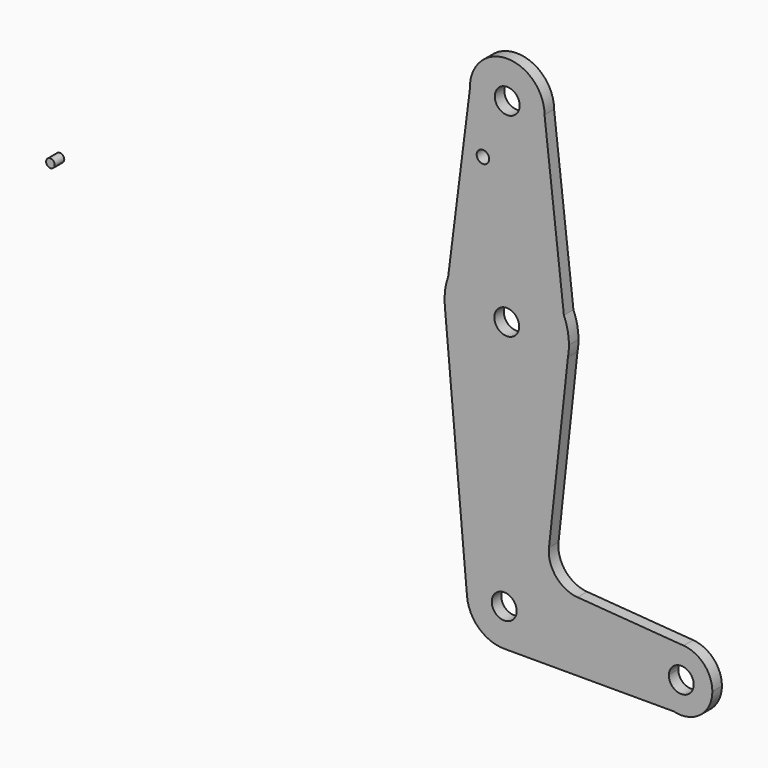
from build123d import *

# Parameters (mm, degrees)
F0_R     = 3.175
F0_R_2   = 1.5875
F1_DEPTH = 3.048
F0_R_3   = 1.1030918325


with BuildPart() as f1:
    # F0 (on Front) → F1 (new body)
    with BuildSketch(Plane.XZ):
        with BuildLine():
            ThreePointArc((-34.3240571053, 40.1856634328), (-27.362676467, 42.8457567674), (-24.4473527431, 49.7041679919))
            ThreePointArc((-24.4473527431, 49.7041679919), (-34.1512333085, 59.2274881452), (-43.4906339491, 49.3464699566))
            ThreePointArc((-43.4906339491, 49.3464699566), (-40.7054239458, 42.9668556806), (-34.3240571053, 40.1856634328))
        make_face()
        with Locations((-33.9723527431, 49.7041679919)):
            Circle(F0_R, mode=Mode.SUBTRACT)
        with BuildLine():
            Line((-19.5043619142, 6.2662041398), (-24.4473527431, 49.7041679919))
            ThreePointArc((-24.4473527431, 49.7041679919), (-27.362676467, 42.8457567674), (-34.3240571053, 40.1856634328))
            Line((-34.3240571053, 40.1856634328), (-34.3240571053, 15.8732792506))
            ThreePointArc((-34.3240571053, 15.8732792506), (-25.4548975397, 13.3208491692), (-19.5043619142, 6.2662041398))
        make_face()
        with BuildLine():
            ThreePointArc((-34.3240571053, 40.1856634328), (-40.7054239458, 42.9668556806), (-43.4906339491, 49.3464699566))
            Line((-43.4906339491, 49.3464699566), (-49.0424855942, 5.3337144552))
            ThreePointArc((-49.0424855942, 5.3337144552), (-43.3328051775, 12.9070593012), (-34.3240571053, 15.8732792506))
            Line((-34.3240571053, 15.8732792506), (-34.3240571053, 40.1856634328))
        make_face()
        with Locations((-40.1735305786, 35.1319760084)):
            Circle(F0_R_2, mode=Mode.SUBTRACT)
        with BuildLine():
            Line((-18.4693988413, -2.8288336832), (-19.5043619142, 6.2662041398))
            ThreePointArc((-19.5043619142, 6.2662041398), (-25.4548975397, 13.3208491692), (-34.3240571053, 15.8732792506))
            ThreePointArc((-34.3240571053, 15.8732792506), (-43.3328051775, 12.9070593012), (-49.0424855942, 5.3337144552))
            Line((-49.0424855942, 5.3337144552), (-49.8986413632, -1.4535300434))
            ThreePointArc((-49.8986413632, -1.4535300434), (-44.7535172274, -11.7606101174), (-33.9932924134, -15.8747034534))
            ThreePointArc((-33.9932924134, -15.8747034534), (-23.876988735, -12.153328485), (-18.4693988413, -2.8288336832))
        make_face()
        with Locations((-34.0903247099, 0)):
            Circle(F0_R, mode=Mode.SUBTRACT)
        with BuildLine():
            ThreePointArc((-18.2153247099, 0), (-18.5409230432, 3.1987079906), (-19.5043619142, 6.2662041398))
            Line((-19.5043619142, 6.2662041398), (-18.4693988413, -2.8288336832))
            ThreePointArc((-18.4693988413, -2.8288336832), (-18.2789708279, -1.4201103541), (-18.2153247099, 0))
        make_face()
        with BuildLine():
            Line((-49.8986413632, -1.4535300434), (-49.0424855942, 5.3337144552))
            ThreePointArc((-49.0424855942, 5.3337144552), (-49.840512536, 1.9867582749), (-49.8986413632, -1.4535300434))
        make_face()
        with BuildLine():
            Line((-23.3113934871, -47.182565119), (-18.4693988413, -2.8288336832))
            ThreePointArc((-18.4693988413, -2.8288336832), (-23.876988735, -12.153328485), (-33.9932924134, -15.8747034534))
            Line((-33.9932924134, -15.8747034534), (-33.9932924134, -54.6101585084))
            ThreePointArc((-33.9932924134, -54.6101585084), (-27.7447856232, -57.6396006759), (-25.2134807962, -64.1059638599))
            ThreePointArc((-25.2134807962, -64.1059638599), (-25.215435702, -64.298933116), (-25.2212996169, -64.4918231622))
            Line((-25.2212996169, -64.4918231622), (2.5257232705, -65.616783031))
            ThreePointArc((2.5257232705, -65.616783031), (5.1792686503, -60.0093743182), (11.056403534, -58.0235190582))
            Line((11.056403534, -58.0235190582), (-16.0088030873, -55.9728213429))
            ThreePointArc((-16.0088030873, -55.9728213429), (-21.5233938378, -53.1256440362), (-23.3113934871, -47.182565119))
        make_face()
        with BuildLine():
            ThreePointArc((-33.9932924134, -15.8747034534), (-44.7535172274, -11.7606101174), (-49.8986413632, -1.4535300434))
            Line((-49.8986413632, -1.4535300434), (-44.2256962235, -64.9535300434))
            ThreePointArc((-44.2256962235, -64.9535300434), (-41.5098981433, -57.4071929197), (-33.9932924134, -54.6101585084))
            Line((-33.9932924134, -54.6101585084), (-33.9932924134, -15.8747034534))
        make_face()
        with BuildLine():
            ThreePointArc((-33.9932924134, -54.6101585084), (-41.5098981433, -57.4071929197), (-44.2256962235, -64.9535300434))
            ThreePointArc((-44.2256962235, -64.9535300434), (-41.1037425062, -71.1917996161), (-34.5676464341, -73.6294317483))
            ThreePointArc((-34.5676464341, -73.6294317483), (-28.0797734178, -70.9167818027), (-25.2212996169, -64.4918231622))
            ThreePointArc((-25.2212996169, -64.4918231622), (-25.215435702, -64.298933116), (-25.2134807962, -64.1059638599))
            ThreePointArc((-25.2134807962, -64.1059638599), (-27.7447856232, -57.6396006759), (-33.9932924134, -54.6101585084))
        make_face()
        with BuildLine():
            ThreePointArc((-31.5634807962, -64.1059638599), (-31.5641324314, -64.1702869453), (-31.5660870697, -64.2345836273))
            ThreePointArc((-31.5660870697, -64.2345836273), (-37.9128291609, -64.0416407746), (-31.5634807962, -64.1059638599))
        make_face(mode=Mode.SUBTRACT)
        with BuildLine():
            ThreePointArc((-25.2212996169, -64.4918231622), (-28.0797734178, -70.9167818027), (-34.5676464341, -73.6294317483))
            Line((-34.5676464341, -73.6294317483), (8.4943371253, -73.6294317483))
            ThreePointArc((8.4943371253, -73.6294317483), (4.0911556031, -70.6800256277), (2.5257232705, -65.616783031))
            Line((2.5257232705, -65.616783031), (-25.2212996169, -64.4918231622))
        make_face()
        with BuildLine():
            ThreePointArc((18.3942075866, -65.9383324496), (16.2775319626, -60.5418604693), (11.056403534, -58.0235190582))
            ThreePointArc((11.056403534, -58.0235190582), (5.1792686503, -60.0093743182), (2.5257232705, -65.616783031))
            ThreePointArc((2.5257232705, -65.616783031), (4.0911556031, -70.6800256277), (8.4943371253, -73.6294317483))
            Line((8.4943371253, -73.6294317483), (12.4190780479, -73.6294317483))
            ThreePointArc((12.4190780479, -73.6294317483), (16.72489001, -70.8080136873), (18.3942075866, -65.9383324496))
        make_face()
        with BuildLine():
            ThreePointArc((13.6317075866, -65.9383324496), (10.3923845012, -69.1126808143), (7.2843138602, -65.8097126822))
            ThreePointArc((7.2843138602, -65.8097126822), (10.5210306719, -62.7639840848), (13.6317075866, -65.9383324496))
        make_face(mode=Mode.SUBTRACT)
        with BuildLine():
            Line((12.4190780479, -73.6294317483), (8.4943371253, -73.6294317483))
            ThreePointArc((8.4943371253, -73.6294317483), (10.4567075866, -73.8758324496), (12.4190780479, -73.6294317483))
        make_face()
    extrude(amount=F1_DEPTH)


with BuildPart() as f1b:
    # F0 (on Front) → F1, piece 2 (new body)
    with BuildSketch(Plane.XZ):
        with Locations((-150.5721614524, -2.2061855226)):
            Circle(F0_R_3)
    extrude(amount=F1_DEPTH)


solid = Compound([f1.part, f1b.part])
